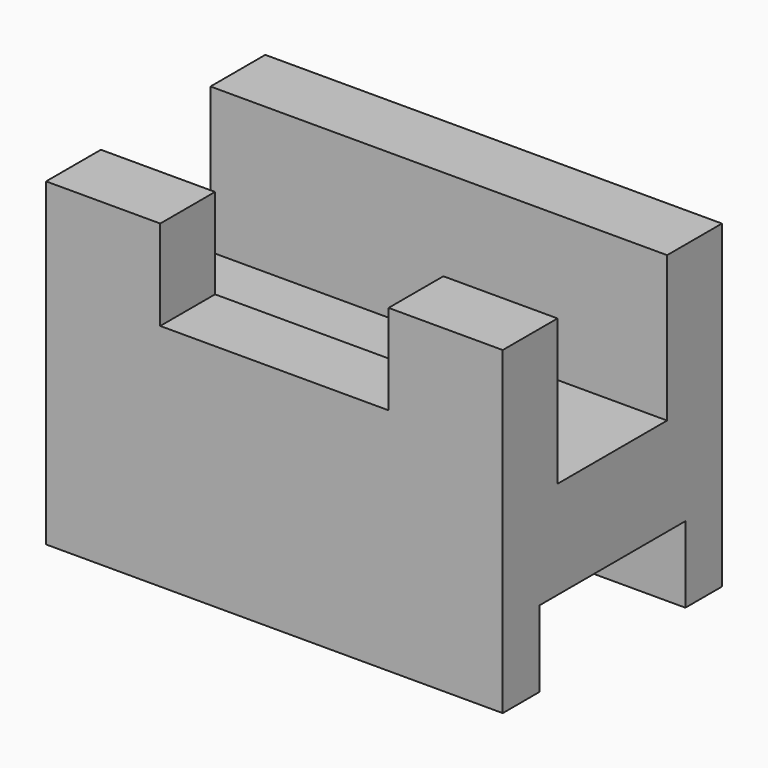
from build123d import *

# Parameters (mm, degrees)
F0_W     = 63.5
F0_H     = 44.45
F1_DEPTH = 38.1
F3_W     = 19.05
F3_H     = 20.2448921431
F4_DEPTH = 63.5
F2_W     = 31.75
F2_H     = 12.5393269187
F5_DEPTH = 25.4
F6_W     = 25.4
F6_H     = 10.5997411049
F7_DEPTH = 63.5


with BuildPart() as f1:
    # F0 (on Front) → F1 (new body)
    with BuildSketch(Plane.XZ):
        Rectangle(F0_W, F0_H)
    extrude(amount=F1_DEPTH)

    # F3 (on face) → F4 (cut)
    with BuildSketch(Plane.YZ.offset(31.75)):
        with Locations((-19.05, 12.1025539285)):
            Rectangle(F3_W, F3_H)
    extrude(amount=-F4_DEPTH, mode=Mode.SUBTRACT)

    # F2 (on face) → F5 (cut)
    with BuildSketch(Plane.XZ.offset(38.1)):
        with Locations((0, 15.9553365407)):
            Rectangle(F2_W, F2_H)
    extrude(amount=-F5_DEPTH, mode=Mode.SUBTRACT)

    # F6 (on face) → F7 (cut)
    with BuildSketch(Plane.YZ.offset(31.75)):
        with Locations((-19.05, -16.9251294475)):
            Rectangle(F6_W, F6_H)
    extrude(amount=-F7_DEPTH, mode=Mode.SUBTRACT)


solid = f1.part
